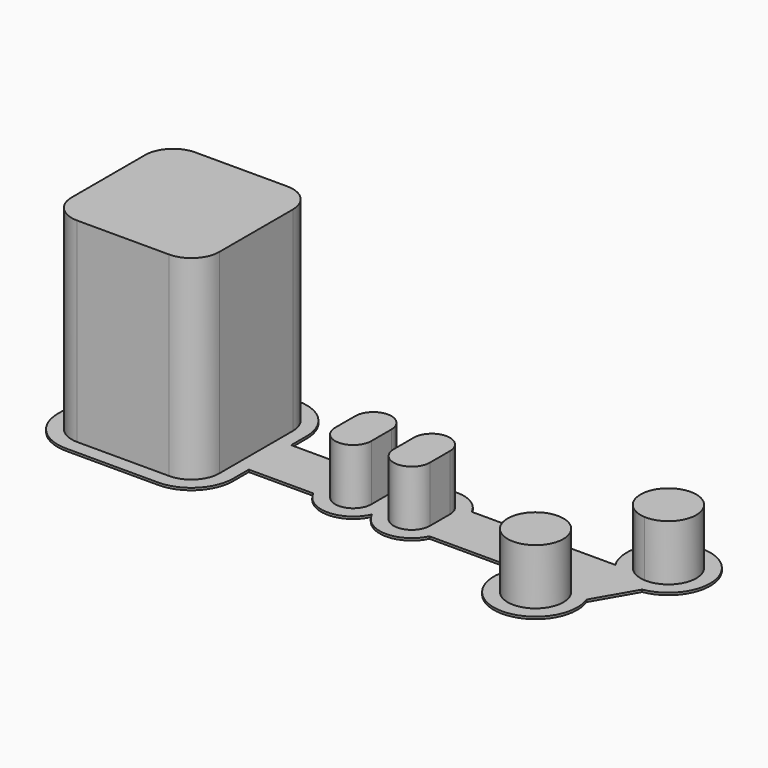
from build123d import *

# Parameters (mm, degrees)
F0_W     = 16
F0_H     = 4.5
F0_W_2   = 6.5
F0_W_3   = 4
F1_DEPTH = 0.4
F2_W     = 6.5
F2_H     = 4.5
F3_DEPTH = 10
F4_DEPTH = 25


with BuildPart() as f1:
    # F0 (on Top) → F1 (new body)
    with BuildSketch(Plane.XY):
        with BuildLine():
            Line((15.75, 4.75), (15.75, 8.25))
            ThreePointArc((15.75, 8.25), (13.5533008589, 13.5533008589), (8.25, 15.75))
            Line((8.25, 15.75), (-8.25, 15.75))
            ThreePointArc((-8.25, 15.75), (-13.5533008589, 13.5533008589), (-15.75, 8.25))
            Line((-15.75, 8.25), (-15.75, -8.25))
            ThreePointArc((-15.75, -8.25), (-13.5533008589, -13.5533008589), (-8.25, -15.75))
            Line((-8.25, -15.75), (8.25, -15.75))
            ThreePointArc((8.25, -15.75), (13.5533008589, -13.5533008589), (15.75, -8.25))
            Line((15.75, -8.25), (15.75, -4.75))
            Line((15.75, -4.75), (27.3219212057, -4.75))
            ThreePointArc((27.3219212057, -4.75), (32.5853423404, -7.9993666334), (37.75, -4.5952078799))
            ThreePointArc((37.75, -4.5952078799), (42.9146576596, -7.9993666334), (48.1780787943, -4.75))
            Line((48.1780787943, -4.75), (63.9480829801, -4.75))
            ThreePointArc((63.9480829801, -4.75), (69.6474451199, -16.1274567319), (77.3637435709, -6.0087617221))
            Line((77.3637435709, -6.0087617221), (81.5596501878, 1.2587617221))
            ThreePointArc((81.5596501878, 1.2587617221), (83.4749132345, 15.4773568118), (73.9480829801, 4.75))
            Line((73.9480829801, 4.75), (48.1780787943, 4.75))
            ThreePointArc((48.1780787943, 4.75), (42.9146576596, 7.9993666334), (37.75, 4.5952078799))
            ThreePointArc((37.75, 4.5952078799), (32.5853423404, 7.9993666334), (27.3219212057, 4.75))
            Line((27.3219212057, 4.75), (15.75, 4.75))
        make_face()
        with BuildLine():
            ThreePointArc((-13.25, 8.25), (-11.7855339059, 11.7855339059), (-8.25, 13.25))
            Line((-8.25, 13.25), (-4.5, 13.25))
            Line((-4.5, 13.25), (4.5, 13.25))
            Line((4.5, 13.25), (8.25, 13.25))
            ThreePointArc((8.25, 13.25), (11.7855339059, 11.7855339059), (13.25, 8.25))
            Line((13.25, 8.25), (13.25, 4.5))
            Line((13.25, 4.5), (13.25, 2.25))
            Line((13.25, 2.25), (29.25, 2.25))
            ThreePointArc((29.25, 2.25), (32.5, 5.5), (35.75, 2.25))
            Line((35.75, 2.25), (39.75, 2.25))
            ThreePointArc((39.75, 2.25), (43, 5.5), (46.25, 2.25))
            Line((46.25, 2.25), (74.0490381057, 2.25))
            Line((74.0490381057, 2.25), (76.1669476654, 5.9183269633))
            ThreePointArc((76.1669476654, 5.9183269633), (82.8480762114, 12.9903810568), (80.0640619824, 3.6683269633))
            Line((80.0640619824, 3.6683269633), (74.5292047573, -5.9183269633))
            ThreePointArc((74.5292047573, -5.9183269633), (67.8480762114, -12.9903810568), (70.6320904403, -3.6683269633))
            Line((70.6320904403, -3.6683269633), (71.4509618943, -2.25))
            Line((71.4509618943, -2.25), (46.25, -2.25))
            ThreePointArc((46.25, -2.25), (43, -5.5), (39.75, -2.25))
            Line((39.75, -2.25), (35.75, -2.25))
            ThreePointArc((35.75, -2.25), (32.5, -5.5), (29.25, -2.25))
            Line((29.25, -2.25), (13.25, -2.25))
            Line((13.25, -2.25), (13.25, -4.5))
            Line((13.25, -4.5), (13.25, -8.25))
            ThreePointArc((13.25, -8.25), (11.7855339059, -11.7855339059), (8.25, -13.25))
            Line((8.25, -13.25), (4.5, -13.25))
            Line((4.5, -13.25), (-4.5, -13.25))
            Line((-4.5, -13.25), (-8.25, -13.25))
            ThreePointArc((-8.25, -13.25), (-11.7855339059, -11.7855339059), (-13.25, -8.25))
            Line((-13.25, -8.25), (-13.25, -4.5))
            Line((-13.25, -4.5), (-13.25, 4.5))
            Line((-13.25, 4.5), (-13.25, 8.25))
        make_face(mode=Mode.SUBTRACT)
        Polygon((74.0490381057, 2.25), (46.25, 2.25), (46.25, -2.25), (71.4509618943, -2.25), align=None)
        Polygon((4.5, -4.5), (0, -4.5), (-4.5, -4.5), (-4.5, -13.25), (4.5, -13.25), align=None)
        Polygon((-4.5, 0), (-4.5, 4.5), (-13.25, 4.5), (-13.25, -4.5), (-4.5, -4.5), align=None)
        Polygon((4.5, 13.25), (-4.5, 13.25), (-4.5, 4.5), (0, 4.5), (4.5, 4.5), align=None)
        Polygon((13.25, 4.5), (4.5, 4.5), (4.5, 0), (4.5, -4.5), (13.25, -4.5), (13.25, -2.25), (13.25, 2.25), align=None)
        with BuildLine():
            ThreePointArc((80.0640619824, 3.6683269633), (82.8480762114, 12.9903810568), (76.1669476654, 5.9183269633))
            ThreePointArc((76.1669476654, 5.9183269633), (77.8480762114, 4.3301270189), (80.0640619824, 3.6683269633))
        make_face()
        with BuildLine():
            ThreePointArc((74.5292047573, -5.9183269633), (72.8480762114, -4.3301270189), (70.6320904403, -3.6683269633))
            ThreePointArc((70.6320904403, -3.6683269633), (67.8480762114, -12.9903810568), (74.5292047573, -5.9183269633))
        make_face()
        with Locations((21.25, 0)):
            Rectangle(F0_W, F0_H)
        with BuildLine():
            Line((-4.5, -4.5), (-13.25, -4.5))
            Line((-13.25, -4.5), (-13.25, -8.25))
            ThreePointArc((-13.25, -8.25), (-11.7855339059, -11.7855339059), (-8.25, -13.25))
            Line((-8.25, -13.25), (-4.5, -13.25))
            Line((-4.5, -13.25), (-4.5, -4.5))
        make_face()
        with BuildLine():
            Line((8.25, 13.25), (4.5, 13.25))
            Line((4.5, 13.25), (4.5, 4.5))
            Line((4.5, 4.5), (13.25, 4.5))
            Line((13.25, 4.5), (13.25, 8.25))
            ThreePointArc((13.25, 8.25), (11.7855339059, 11.7855339059), (8.25, 13.25))
        make_face()
        with BuildLine():
            Line((13.25, -4.5), (4.5, -4.5))
            Line((4.5, -4.5), (4.5, -13.25))
            Line((4.5, -13.25), (8.25, -13.25))
            ThreePointArc((8.25, -13.25), (11.7855339059, -11.7855339059), (13.25, -8.25))
            Line((13.25, -8.25), (13.25, -4.5))
        make_face()
        with BuildLine():
            Line((-4.5, 13.25), (-8.25, 13.25))
            ThreePointArc((-8.25, 13.25), (-11.7855339059, 11.7855339059), (-13.25, 8.25))
            Line((-13.25, 8.25), (-13.25, 4.5))
            Line((-13.25, 4.5), (-4.5, 4.5))
            Line((-4.5, 4.5), (-4.5, 13.25))
        make_face()
        with BuildLine():
            ThreePointArc((0, 4.5), (-3.1819805153, 3.1819805153), (-4.5, 0))
            ThreePointArc((-4.5, 0), (-3.1819805153, -3.1819805153), (0, -4.5))
            ThreePointArc((0, -4.5), (3.1819805153, -3.1819805153), (4.5, 0))
            ThreePointArc((4.5, 0), (3.1819805153, 3.1819805153), (0, 4.5))
        make_face()
        with BuildLine():
            Line((76.1669476654, 5.9183269633), (74.0490381057, 2.25))
            Line((74.0490381057, 2.25), (71.4509618943, -2.25))
            Line((71.4509618943, -2.25), (70.6320904403, -3.6683269633))
            ThreePointArc((70.6320904403, -3.6683269633), (72.8480762114, -4.3301270189), (74.5292047573, -5.9183269633))
            Line((74.5292047573, -5.9183269633), (80.0640619824, 3.6683269633))
            ThreePointArc((80.0640619824, 3.6683269633), (77.8480762114, 4.3301270189), (76.1669476654, 5.9183269633))
        make_face()
        with Locations((43, 0)):
            Rectangle(F0_W_2, F0_H)
        with Locations((32.5, 0)):
            Rectangle(F0_W_2, F0_H)
        with Locations((37.75, 0)):
            Rectangle(F0_W_3, F0_H)
        with BuildLine():
            Line((46.25, -2.25), (39.75, -2.25))
            ThreePointArc((39.75, -2.25), (43, -5.5), (46.25, -2.25))
        make_face()
        with BuildLine():
            ThreePointArc((35.75, 2.25), (32.5, 5.5), (29.25, 2.25))
            Line((29.25, 2.25), (35.75, 2.25))
        make_face()
        with BuildLine():
            Line((35.75, -2.25), (29.25, -2.25))
            ThreePointArc((29.25, -2.25), (32.5, -5.5), (35.75, -2.25))
        make_face()
        with BuildLine():
            ThreePointArc((46.25, 2.25), (43, 5.5), (39.75, 2.25))
            Line((39.75, 2.25), (46.25, 2.25))
        make_face()
        with BuildLine():
            Line((4.5, 0), (4.5, 4.5))
            Line((4.5, 4.5), (0, 4.5))
            ThreePointArc((0, 4.5), (3.1819805153, 3.1819805153), (4.5, 0))
        make_face()
        with BuildLine():
            Line((0, 4.5), (-4.5, 4.5))
            Line((-4.5, 4.5), (-4.5, 0))
            ThreePointArc((-4.5, 0), (-3.1819805153, 3.1819805153), (0, 4.5))
        make_face()
        with BuildLine():
            ThreePointArc((0, -4.5), (-3.1819805153, -3.1819805153), (-4.5, 0))
            Line((-4.5, 0), (-4.5, -4.5))
            Line((-4.5, -4.5), (0, -4.5))
        make_face()
        with BuildLine():
            Line((4.5, -4.5), (4.5, 0))
            ThreePointArc((4.5, 0), (3.1819805153, -3.1819805153), (0, -4.5))
            Line((0, -4.5), (4.5, -4.5))
        make_face()
    extrude(amount=F1_DEPTH)

    # F2 (on face) → F3 (join)
    with BuildSketch(Plane.XY.offset(0.4)):
        with BuildLine():
            Line((-4.5, 13.25), (-8.25, 13.25))
            ThreePointArc((-8.25, 13.25), (-11.7855339059, 11.7855339059), (-13.25, 8.25))
            Line((-13.25, 8.25), (-13.25, 4.5))
            Line((-13.25, 4.5), (-4.5, 4.5))
            Line((-4.5, 4.5), (-4.5, 13.25))
        make_face()
        Polygon((4.5, 13.25), (-4.5, 13.25), (-4.5, 4.5), (0, 4.5), (4.5, 4.5), align=None)
        with BuildLine():
            Line((8.25, 13.25), (4.5, 13.25))
            Line((4.5, 13.25), (4.5, 4.5))
            Line((4.5, 4.5), (13.25, 4.5))
            Line((13.25, 4.5), (13.25, 8.25))
            ThreePointArc((13.25, 8.25), (11.7855339059, 11.7855339059), (8.25, 13.25))
        make_face()
        Polygon((13.25, 4.5), (4.5, 4.5), (4.5, 0), (4.5, -4.5), (13.25, -4.5), (13.25, -2.25), (13.25, 2.25), align=None)
        with BuildLine():
            Line((13.25, -4.5), (4.5, -4.5))
            Line((4.5, -4.5), (4.5, -13.25))
            Line((4.5, -13.25), (8.25, -13.25))
            ThreePointArc((8.25, -13.25), (11.7855339059, -11.7855339059), (13.25, -8.25))
            Line((13.25, -8.25), (13.25, -4.5))
        make_face()
        Polygon((4.5, -4.5), (0, -4.5), (-4.5, -4.5), (-4.5, -13.25), (4.5, -13.25), align=None)
        with BuildLine():
            Line((-4.5, -4.5), (-13.25, -4.5))
            Line((-13.25, -4.5), (-13.25, -8.25))
            ThreePointArc((-13.25, -8.25), (-11.7855339059, -11.7855339059), (-8.25, -13.25))
            Line((-8.25, -13.25), (-4.5, -13.25))
            Line((-4.5, -13.25), (-4.5, -4.5))
        make_face()
        Polygon((-4.5, 0), (-4.5, 4.5), (-13.25, 4.5), (-13.25, -4.5), (-4.5, -4.5), align=None)
        with BuildLine():
            Line((4.5, 0), (4.5, 4.5))
            Line((4.5, 4.5), (0, 4.5))
            ThreePointArc((0, 4.5), (3.1819805153, 3.1819805153), (4.5, 0))
        make_face()
        with BuildLine():
            Line((4.5, -4.5), (4.5, 0))
            ThreePointArc((4.5, 0), (3.1819805153, -3.1819805153), (0, -4.5))
            Line((0, -4.5), (4.5, -4.5))
        make_face()
        with BuildLine():
            ThreePointArc((0, -4.5), (-3.1819805153, -3.1819805153), (-4.5, 0))
            Line((-4.5, 0), (-4.5, -4.5))
            Line((-4.5, -4.5), (0, -4.5))
        make_face()
        with BuildLine():
            Line((0, 4.5), (-4.5, 4.5))
            Line((-4.5, 4.5), (-4.5, 0))
            ThreePointArc((-4.5, 0), (-3.1819805153, 3.1819805153), (0, 4.5))
        make_face()
        with BuildLine():
            ThreePointArc((0, 4.5), (-3.1819805153, 3.1819805153), (-4.5, 0))
            ThreePointArc((-4.5, 0), (-3.1819805153, -3.1819805153), (0, -4.5))
            ThreePointArc((0, -4.5), (3.1819805153, -3.1819805153), (4.5, 0))
            ThreePointArc((4.5, 0), (3.1819805153, 3.1819805153), (0, 4.5))
        make_face()
        with Locations((32.5, 0)):
            Rectangle(F2_W, F2_H)
        with BuildLine():
            ThreePointArc((35.75, 2.25), (32.5, 5.5), (29.25, 2.25))
            Line((29.25, 2.25), (35.75, 2.25))
        make_face()
        with BuildLine():
            Line((35.75, -2.25), (29.25, -2.25))
            ThreePointArc((29.25, -2.25), (32.5, -5.5), (35.75, -2.25))
        make_face()
        with BuildLine():
            Line((46.25, -2.25), (39.75, -2.25))
            ThreePointArc((39.75, -2.25), (43, -5.5), (46.25, -2.25))
        make_face()
        with Locations((43, 0)):
            Rectangle(F2_W, F2_H)
        with BuildLine():
            ThreePointArc((46.25, 2.25), (43, 5.5), (39.75, 2.25))
            Line((39.75, 2.25), (46.25, 2.25))
        make_face()
        with BuildLine():
            ThreePointArc((72.8480762114, -4.3301270189), (71.7788727151, -3.8693437522), (70.6320904403, -3.6683269633))
            ThreePointArc((70.6320904403, -3.6683269633), (67.8480762114, -12.9903810568), (74.5292047573, -5.9183269633))
            ThreePointArc((74.5292047573, -5.9183269633), (73.7817279741, -5.0256927751), (72.8480762114, -4.3301270189))
        make_face()
        with BuildLine():
            ThreePointArc((80.0640619824, 3.6683269633), (82.8480762114, 12.9903810568), (76.1669476654, 5.9183269633))
            ThreePointArc((76.1669476654, 5.9183269633), (76.9144244486, 5.0256927751), (77.8480762114, 4.3301270189))
            ThreePointArc((77.8480762114, 4.3301270189), (78.9172797076, 3.8693437522), (80.0640619824, 3.6683269633))
        make_face()
    extrude(amount=F3_DEPTH)

    # F4 (add): a face of the model
    f4_faces = [f1.faces().sort_by_distance(p)[0] for p in [
        (0, 0, 10.4),
    ]]
    extrude(f4_faces, amount=F4_DEPTH)


solid = f1.part
